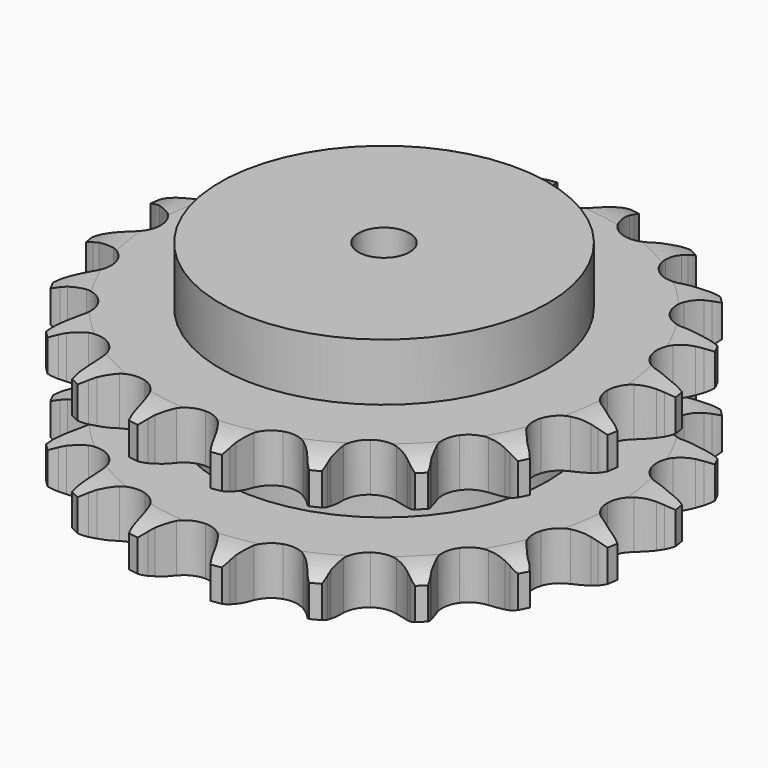
from build123d import *

# Parameters (mm, degrees)
PAD_DEPTH         = 72
SKETCH001_R       = 80
PAD001_DEPTH      = 100
SKETCH002_R       = 12.5
POCKET_DEPTH      = 0.001
POCKET_DEPTH_BACK = 100.001


with BuildPart() as part:
    # Sprocket → Pad (new body)
    with BuildSketch(Plane.XY):
        with BuildLine():
            ThreePointArc((-20.850947, 131.647698), (-17.907174, 128.276938), (-15.743647, 124.359417))
            Line((-15.743647, 124.359417), (-14.521204, 121.451339))
            ThreePointArc((-14.521204, 121.451339), (-12.555454, 117.525827), (-10.087798, 113.894782))
            ThreePointArc((-10.087798, 113.894782), (-5.611852, 110.270232), (0, 108.974634))
            ThreePointArc((0, 108.974634), (5.611852, 110.270232), (10.087798, 113.894782))
            ThreePointArc((10.087798, 113.894782), (12.555454, 117.525827), (14.521204, 121.451339))
            Line((14.521204, 121.451339), (15.743647, 124.359417))
            ThreePointArc((15.743647, 124.359417), (17.907174, 128.276938), (20.850947, 131.647698))
            ThreePointArc((20.850947, 131.647698), (22.609019, 127.532239), (23.456075, 123.137888))
            Line((23.456075, 123.137888), (23.720042, 119.994386))
            ThreePointArc((23.720042, 119.994386), (24.376531, 115.653552), (25.601357, 111.437676))
            ThreePointArc((25.601357, 111.437676), (28.738187, 106.60738), (33.675014, 103.641036))
            ThreePointArc((33.675014, 103.641036), (39.412564, 103.139065), (44.78949, 105.203073))
            Line((44.78949, 105.203073), (51.341013, 111.019788))
            ThreePointArc((51.341013, 111.019788), (52.343197, 112.238337), (53.402272, 113.407779))
            ThreePointArc((53.402272, 113.407779), (56.670488, 116.464997), (60.511805, 118.761104))
            ThreePointArc((60.511805, 118.761104), (60.912084, 114.303796), (60.359753, 109.862765))
            Line((60.359753, 109.862765), (59.639405, 106.791547))
            ThreePointArc((59.639405, 106.791547), (58.922372, 102.460302), (58.784473, 98.072273))
            ThreePointArc((58.784473, 98.072273), (60.275132, 92.509056), (64.053683, 88.162331))
            ThreePointArc((64.053683, 88.162331), (69.3553, 85.911928), (75.106874, 86.213355))
            Line((75.106874, 86.213355), (83.135207, 89.720847))
            ThreePointArc((83.135207, 89.720847), (84.464892, 90.570065), (85.833509, 91.354998))
            ThreePointArc((85.833509, 91.354998), (89.8865, 93.25265), (94.249346, 94.249346))
            ThreePointArc((94.249346, 94.249346), (93.25265, 89.8865), (91.354998, 85.833509))
            Line((91.354998, 85.833509), (89.720847, 83.135207))
            ThreePointArc((89.720847, 83.135207), (87.700481, 79.237524), (86.213355, 75.106874))
            ThreePointArc((86.213355, 75.106874), (85.911928, 69.3553), (88.162331, 64.053683))
            ThreePointArc((88.162331, 64.053683), (92.509056, 60.275132), (98.072273, 58.784473))
            Line((98.072273, 58.784473), (106.791547, 59.639405))
            ThreePointArc((106.791547, 59.639405), (108.318575, 60.036163), (109.862765, 60.359753))
            ThreePointArc((109.862765, 60.359753), (114.303796, 60.912084), (118.761104, 60.511805))
            ThreePointArc((118.761104, 60.511805), (116.464997, 56.670488), (113.407779, 53.402272))
            Line((113.407779, 53.402272), (111.019788, 51.341013))
            ThreePointArc((111.019788, 51.341013), (107.893855, 48.258424), (105.203073, 44.78949))
            ThreePointArc((105.203073, 44.78949), (103.139065, 39.412564), (103.641036, 33.675014))
            ThreePointArc((103.641036, 33.675014), (106.60738, 28.738187), (111.437676, 25.601357))
            Line((111.437676, 25.601357), (119.994386, 23.720042))
            ThreePointArc((119.994386, 23.720042), (121.569281, 23.625504), (123.137888, 23.456075))
            ThreePointArc((123.137888, 23.456075), (127.532239, 22.609019), (131.647698, 20.850947))
            ThreePointArc((131.647698, 20.850947), (128.276938, 17.907174), (124.359417, 15.743647))
            Line((124.359417, 15.743647), (121.451339, 14.521204))
            ThreePointArc((121.451339, 14.521204), (117.525827, 12.555454), (113.894782, 10.087798))
            ThreePointArc((113.894782, 10.087798), (110.270232, 5.611852), (108.974634, 0))
            ThreePointArc((108.974634, 0), (110.270232, -5.611852), (113.894782, -10.087798))
            Line((113.894782, -10.087798), (121.451339, -14.521204))
            ThreePointArc((121.451339, -14.521204), (122.919939, -15.097785), (124.359417, -15.743647))
            ThreePointArc((124.359417, -15.743647), (128.276938, -17.907174), (131.647698, -20.850947))
            ThreePointArc((131.647698, -20.850947), (127.532239, -22.609019), (123.137888, -23.456075))
            Line((123.137888, -23.456075), (119.994386, -23.720042))
            ThreePointArc((119.994386, -23.720042), (115.653552, -24.376531), (111.437676, -25.601357))
            ThreePointArc((111.437676, -25.601357), (106.60738, -28.738187), (103.641036, -33.675014))
            ThreePointArc((103.641036, -33.675014), (103.139065, -39.412564), (105.203073, -44.78949))
            Line((105.203073, -44.78949), (111.019788, -51.341013))
            ThreePointArc((111.019788, -51.341013), (112.238337, -52.343197), (113.407779, -53.402272))
            ThreePointArc((113.407779, -53.402272), (116.464997, -56.670488), (118.761104, -60.511805))
            ThreePointArc((118.761104, -60.511805), (114.303796, -60.912084), (109.862765, -60.359753))
            Line((109.862765, -60.359753), (106.791547, -59.639405))
            ThreePointArc((106.791547, -59.639405), (102.460302, -58.922372), (98.072273, -58.784473))
            ThreePointArc((98.072273, -58.784473), (92.509056, -60.275132), (88.162331, -64.053683))
            ThreePointArc((88.162331, -64.053683), (85.911928, -69.3553), (86.213355, -75.106874))
            Line((86.213355, -75.106874), (89.720847, -83.135207))
            ThreePointArc((89.720847, -83.135207), (90.570065, -84.464892), (91.354998, -85.833509))
            ThreePointArc((91.354998, -85.833509), (93.25265, -89.8865), (94.249346, -94.249346))
            ThreePointArc((94.249346, -94.249346), (89.8865, -93.25265), (85.833509, -91.354998))
            Line((85.833509, -91.354998), (83.135207, -89.720847))
            ThreePointArc((83.135207, -89.720847), (79.237524, -87.700481), (75.106874, -86.213355))
            ThreePointArc((75.106874, -86.213355), (69.3553, -85.911928), (64.053683, -88.162331))
            ThreePointArc((64.053683, -88.162331), (60.275132, -92.509056), (58.784473, -98.072273))
            Line((58.784473, -98.072273), (59.639405, -106.791547))
            ThreePointArc((59.639405, -106.791547), (60.036163, -108.318575), (60.359753, -109.862765))
            ThreePointArc((60.359753, -109.862765), (60.912084, -114.303796), (60.511805, -118.761104))
            ThreePointArc((60.511805, -118.761104), (56.670488, -116.464997), (53.402272, -113.407779))
            Line((53.402272, -113.407779), (51.341013, -111.019788))
            ThreePointArc((51.341013, -111.019788), (48.258424, -107.893855), (44.78949, -105.203073))
            ThreePointArc((44.78949, -105.203073), (39.412564, -103.139065), (33.675014, -103.641036))
            ThreePointArc((33.675014, -103.641036), (28.738187, -106.60738), (25.601357, -111.437676))
            Line((25.601357, -111.437676), (23.720042, -119.994386))
            ThreePointArc((23.720042, -119.994386), (23.625504, -121.569281), (23.456075, -123.137888))
            ThreePointArc((23.456075, -123.137888), (22.609019, -127.532239), (20.850947, -131.647698))
            ThreePointArc((20.850947, -131.647698), (17.907174, -128.276938), (15.743647, -124.359417))
            Line((15.743647, -124.359417), (14.521204, -121.451339))
            ThreePointArc((14.521204, -121.451339), (12.555454, -117.525827), (10.087798, -113.894782))
            ThreePointArc((10.087798, -113.894782), (5.611852, -110.270232), (0, -108.974634))
            ThreePointArc((0, -108.974634), (-5.611852, -110.270232), (-10.087798, -113.894782))
            Line((-10.087798, -113.894782), (-14.521204, -121.451339))
            ThreePointArc((-14.521204, -121.451339), (-15.097785, -122.919939), (-15.743647, -124.359417))
            ThreePointArc((-15.743647, -124.359417), (-17.907174, -128.276938), (-20.850947, -131.647698))
            ThreePointArc((-20.850947, -131.647698), (-22.609019, -127.532239), (-23.456075, -123.137888))
            Line((-23.456075, -123.137888), (-23.720042, -119.994386))
            ThreePointArc((-23.720042, -119.994386), (-24.376531, -115.653552), (-25.601357, -111.437676))
            ThreePointArc((-25.601357, -111.437676), (-28.738187, -106.60738), (-33.675014, -103.641036))
            ThreePointArc((-33.675014, -103.641036), (-39.412564, -103.139065), (-44.78949, -105.203073))
            Line((-44.78949, -105.203073), (-51.341013, -111.019788))
            ThreePointArc((-51.341013, -111.019788), (-52.343197, -112.238337), (-53.402272, -113.407779))
            ThreePointArc((-53.402272, -113.407779), (-56.670488, -116.464997), (-60.511805, -118.761104))
            ThreePointArc((-60.511805, -118.761104), (-60.912084, -114.303796), (-60.359753, -109.862765))
            Line((-60.359753, -109.862765), (-59.639405, -106.791547))
            ThreePointArc((-59.639405, -106.791547), (-58.922372, -102.460302), (-58.784473, -98.072273))
            ThreePointArc((-58.784473, -98.072273), (-60.275132, -92.509056), (-64.053683, -88.162331))
            ThreePointArc((-64.053683, -88.162331), (-69.3553, -85.911928), (-75.106874, -86.213355))
            Line((-75.106874, -86.213355), (-83.135207, -89.720847))
            ThreePointArc((-83.135207, -89.720847), (-84.464892, -90.570065), (-85.833509, -91.354998))
            ThreePointArc((-85.833509, -91.354998), (-89.8865, -93.25265), (-94.249346, -94.249346))
            ThreePointArc((-94.249346, -94.249346), (-93.25265, -89.8865), (-91.354998, -85.833509))
            Line((-91.354998, -85.833509), (-89.720847, -83.135207))
            ThreePointArc((-89.720847, -83.135207), (-87.700481, -79.237524), (-86.213355, -75.106874))
            ThreePointArc((-86.213355, -75.106874), (-85.911928, -69.3553), (-88.162331, -64.053683))
            ThreePointArc((-88.162331, -64.053683), (-92.509056, -60.275132), (-98.072273, -58.784473))
            Line((-98.072273, -58.784473), (-106.791547, -59.639405))
            ThreePointArc((-106.791547, -59.639405), (-108.318575, -60.036163), (-109.862765, -60.359753))
            ThreePointArc((-109.862765, -60.359753), (-114.303796, -60.912084), (-118.761104, -60.511805))
            ThreePointArc((-118.761104, -60.511805), (-116.464997, -56.670488), (-113.407779, -53.402272))
            Line((-113.407779, -53.402272), (-111.019788, -51.341013))
            ThreePointArc((-111.019788, -51.341013), (-107.893855, -48.258424), (-105.203073, -44.78949))
            ThreePointArc((-105.203073, -44.78949), (-103.139065, -39.412564), (-103.641036, -33.675014))
            ThreePointArc((-103.641036, -33.675014), (-106.60738, -28.738187), (-111.437676, -25.601357))
            Line((-111.437676, -25.601357), (-119.994386, -23.720042))
            ThreePointArc((-119.994386, -23.720042), (-121.569281, -23.625504), (-123.137888, -23.456075))
            ThreePointArc((-123.137888, -23.456075), (-127.532239, -22.609019), (-131.647698, -20.850947))
            ThreePointArc((-131.647698, -20.850947), (-128.276938, -17.907174), (-124.359417, -15.743647))
            Line((-124.359417, -15.743647), (-121.451339, -14.521204))
            ThreePointArc((-121.451339, -14.521204), (-117.525827, -12.555454), (-113.894782, -10.087798))
            ThreePointArc((-113.894782, -10.087798), (-110.270232, -5.611852), (-108.974634, 0))
            ThreePointArc((-108.974634, 0), (-110.270232, 5.611852), (-113.894782, 10.087798))
            Line((-113.894782, 10.087798), (-121.451339, 14.521204))
            ThreePointArc((-121.451339, 14.521204), (-122.919939, 15.097785), (-124.359417, 15.743647))
            ThreePointArc((-124.359417, 15.743647), (-128.276938, 17.907174), (-131.647698, 20.850947))
            ThreePointArc((-131.647698, 20.850947), (-127.532239, 22.609019), (-123.137888, 23.456075))
            Line((-123.137888, 23.456075), (-119.994386, 23.720042))
            ThreePointArc((-119.994386, 23.720042), (-115.653552, 24.376531), (-111.437676, 25.601357))
            ThreePointArc((-111.437676, 25.601357), (-106.60738, 28.738187), (-103.641036, 33.675014))
            ThreePointArc((-103.641036, 33.675014), (-103.139065, 39.412564), (-105.203073, 44.78949))
            Line((-105.203073, 44.78949), (-111.019788, 51.341013))
            ThreePointArc((-111.019788, 51.341013), (-112.238337, 52.343197), (-113.407779, 53.402272))
            ThreePointArc((-113.407779, 53.402272), (-116.464997, 56.670488), (-118.761104, 60.511805))
            ThreePointArc((-118.761104, 60.511805), (-114.303796, 60.912084), (-109.862765, 60.359753))
            Line((-109.862765, 60.359753), (-106.791547, 59.639405))
            ThreePointArc((-106.791547, 59.639405), (-102.460302, 58.922372), (-98.072273, 58.784473))
            ThreePointArc((-98.072273, 58.784473), (-92.509056, 60.275132), (-88.162331, 64.053683))
            ThreePointArc((-88.162331, 64.053683), (-85.911928, 69.3553), (-86.213355, 75.106874))
            Line((-86.213355, 75.106874), (-89.720847, 83.135207))
            ThreePointArc((-89.720847, 83.135207), (-90.570065, 84.464892), (-91.354998, 85.833509))
            ThreePointArc((-91.354998, 85.833509), (-93.25265, 89.8865), (-94.249346, 94.249346))
            ThreePointArc((-94.249346, 94.249346), (-89.8865, 93.25265), (-85.833509, 91.354998))
            Line((-85.833509, 91.354998), (-83.135207, 89.720847))
            ThreePointArc((-83.135207, 89.720847), (-79.237524, 87.700481), (-75.106874, 86.213355))
            ThreePointArc((-75.106874, 86.213355), (-69.3553, 85.911928), (-64.053683, 88.162331))
            ThreePointArc((-64.053683, 88.162331), (-60.275132, 92.509056), (-58.784473, 98.072273))
            Line((-58.784473, 98.072273), (-59.639405, 106.791547))
            ThreePointArc((-59.639405, 106.791547), (-60.036163, 108.318575), (-60.359753, 109.862765))
            ThreePointArc((-60.359753, 109.862765), (-60.912084, 114.303796), (-60.511805, 118.761104))
            ThreePointArc((-60.511805, 118.761104), (-56.670488, 116.464997), (-53.402272, 113.407779))
            Line((-53.402272, 113.407779), (-51.341013, 111.019788))
            ThreePointArc((-51.341013, 111.019788), (-48.258424, 107.893855), (-44.78949, 105.203073))
            ThreePointArc((-44.78949, 105.203073), (-39.412564, 103.139065), (-33.675014, 103.641036))
            ThreePointArc((-33.675014, 103.641036), (-28.738187, 106.60738), (-25.601357, 111.437676))
            Line((-25.601357, 111.437676), (-23.720042, 119.994386))
            ThreePointArc((-23.720042, 119.994386), (-23.625504, 121.569281), (-23.456075, 123.137888))
            ThreePointArc((-23.456075, 123.137888), (-22.609019, 127.532239), (-20.850947, 131.647698))
        make_face()
    extrude(amount=PAD_DEPTH)

    # Sketch → Groove (revolve, cut)
    with BuildSketch(Plane.XZ):
        with BuildLine():
            ThreePointArc((112.329437, 0), (121.047235, 1.013516), (129.3, 4))
            Line((129.3, 4), (129.3, 19.6))
            ThreePointArc((129.3, 19.6), (121.047235, 22.586484), (112.329437, 23.6))
            Line((80, 23.6), (112.329437, 23.6))
            Line((80, 48.4), (80, 23.6))
            Line((112.329437, 48.4), (80, 48.4))
            ThreePointArc((112.329437, 48.4), (121.047235, 49.413516), (129.3, 52.4))
            Line((129.3, 52.4), (129.3, 68))
            ThreePointArc((129.3, 68), (121.047235, 70.986484), (112.329437, 72))
            Line((112.329437, 72), (139.3, 72))
            Line((139.3, 72), (139.3, 0))
            Line((112.329437, 0), (139.3, 0))
        make_face()
    revolve(axis=Axis((0, 0, 0), (0, 0, 1)), mode=Mode.SUBTRACT)

    # Sketch001 → Pad001 (join)
    with BuildSketch(Plane.XY):
        Circle(SKETCH001_R)
    extrude(amount=PAD001_DEPTH)

    # Sketch002 → Pocket (cut, two sides)
    with BuildSketch(Plane.XY) as pocket_sk:
        Circle(SKETCH002_R)
    extrude(amount=-POCKET_DEPTH, mode=Mode.SUBTRACT)
    extrude(pocket_sk.sketch, amount=POCKET_DEPTH_BACK, mode=Mode.SUBTRACT)


solid = part.part
